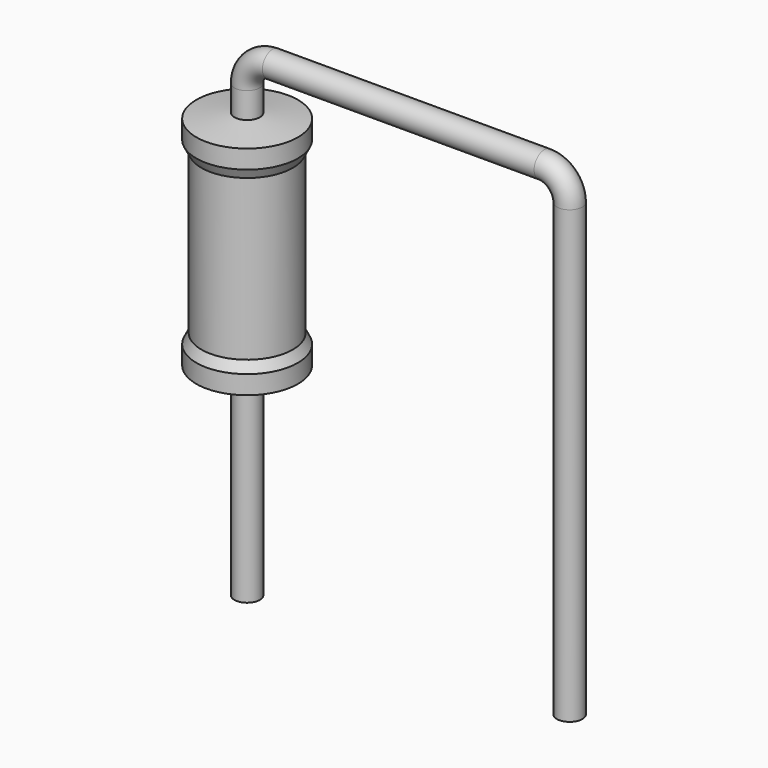
from build123d import *

# Parameters (mm, degrees)
SKETCH_R = 0.2


with BuildPart() as sweep_body:
    # Sweep: sweep along a path in Sketch001
    with BuildLine(Plane.XZ) as sweep_path:
        Line((0, -3), (0, 4.1))
        ThreePointArc((0, 4.1), (0.11716, 4.382846), (0.400008, 4.5))
        Line((0.400008, 4.5), (4.68, 4.5))
        ThreePointArc((4.68, 4.5), (4.962843, 4.382843), (5.08, 4.1))
        Line((5.08, 4.1), (5.08, -3))
    # Sketch → Sweep (sweep)
    with BuildSketch(Plane.XY.offset(-2)):
        Circle(SKETCH_R)
    sweep(path=sweep_path.line)


with BuildPart() as revolution:
    # Sketch002 → Revolution (revolve)
    with BuildSketch(Plane.XZ):
        Polygon((0, 0.1), (0, 3.7), (0.15, 3.7), (0.8, 3.61), (0.8, 3.3175), (0.72, 3.16), (0.72, 0.64), (0.8, 0.4825), (0.8, 0.19), (0.15, 0.1), align=None)
    revolve(axis=Axis((0, 0, 0), (0, 0, 1)))


solid = Compound([sweep_body.part, revolution.part])
